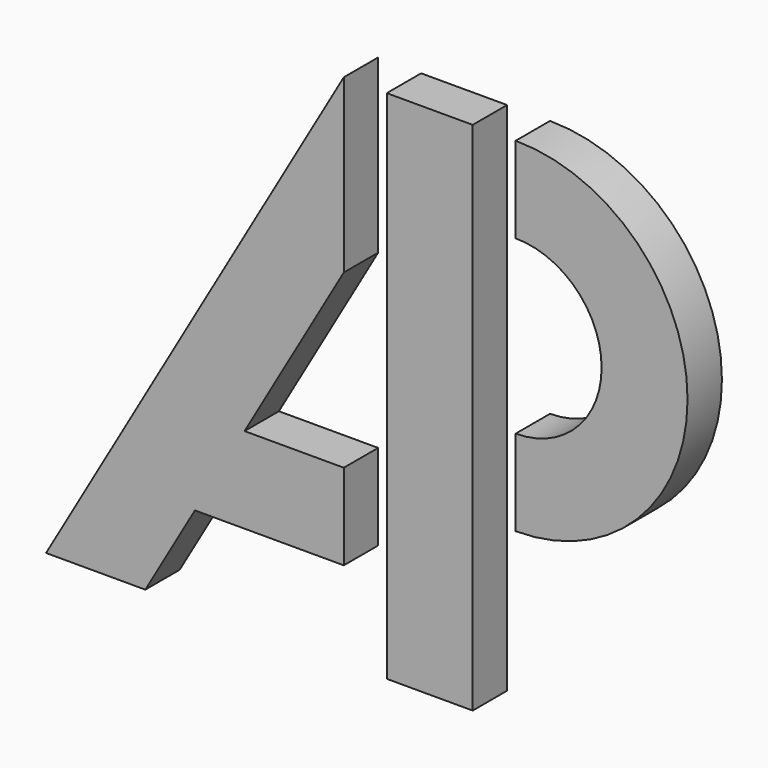
from build123d import *

# Parameters (mm, degrees)
F1_DEPTH = 6.35


with BuildPart() as f1:
    # F0 (on Front) → F1 (new body)
    with BuildSketch(Plane.XZ):
        Polygon((-12.7, 12.7), (-12.7, 38.1), (-56.694091, -38.1), (-42.029394, -38.1), (-34.697045, -25.4), (-27.364697, -12.7), align=None)
        Polygon((6.35, 38.1), (-6.35, 38.1), (-6.35, 12.7), (-6.35, -12.7), (-6.35, -25.4), (-6.35, -38.1), (6.35, -38.1), (6.35, -12.7), (6.35, 0), (6.35, 25.4), align=None)
        with BuildLine():
            ThreePointArc((12.7, -12.7), (38.1, 12.7), (12.7, 38.1))
            Line((12.7, 38.1), (12.7, 25.4))
            ThreePointArc((12.7, 25.4), (25.4, 12.7), (12.7, 0))
            Line((12.7, 0), (12.7, -12.7))
        make_face()
        Polygon((-12.7, -25.4), (-12.7, -12.7), (-27.364697, -12.7), (-34.697045, -25.4), align=None)
    extrude(amount=F1_DEPTH)


solid = f1.part
